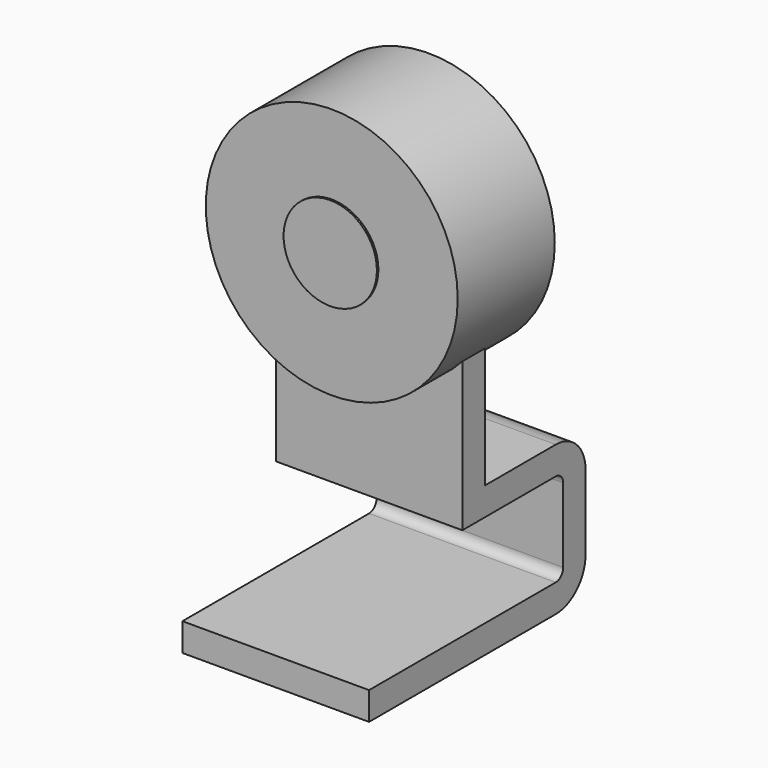
from build123d import *

# Parameters (mm, degrees)
F0_R     = 13.5
F0_R_2   = 5
F1_DEPTH = 6.5
F2_DEPTH = 6.7
F3_R     = 5
F4_DEPTH = 1.5
F6_DEPTH = 10


with BuildPart() as f1:
    # F0 (on Front) → F1 (new body, symmetric)
    with BuildSketch(Plane.XZ):
        Circle(F0_R)
        Circle(F0_R_2, mode=Mode.SUBTRACT)
    extrude(amount=F1_DEPTH, both=True)

    # F0 (on Front) → F2 (join, symmetric)
    with BuildSketch(Plane.XZ):
        Circle(F0_R_2)
    extrude(amount=F2_DEPTH, both=True)

    # F3 (on Front) → F4 (join, symmetric)
    with BuildSketch(Plane.XZ):
        with BuildLine():
            Line((10, -25), (10, 0))
            ThreePointArc((10, 0), (0, 10), (-10, 0))
            Line((-10, 0), (-10, -25))
            Line((-10, -25), (10, -25))
        make_face()
        Circle(F3_R, mode=Mode.SUBTRACT)
    extrude(amount=F4_DEPTH, both=True)

    # F5 (on Right) → F6 (join, symmetric)
    with BuildSketch(Plane.YZ):
        with BuildLine():
            Line((0, -22), (0, -25))
            Line((0, -25), (1.5, -25))
            Line((1.5, -25), (11, -25))
            ThreePointArc((11, -25), (11.7071067812, -25.2928932188), (12, -26))
            Line((12, -26), (12, -34))
            ThreePointArc((12, -34), (11.7071067812, -34.7071067812), (11, -35))
            Line((11, -35), (-14, -35))
            Line((-14, -35), (-14, -38))
            Line((-14, -38), (11, -38))
            ThreePointArc((11, -38), (13.8284271247, -36.8284271247), (15, -34))
            Line((15, -34), (15, -26))
            ThreePointArc((15, -26), (13.8284271247, -23.1715728753), (11, -22))
            Line((11, -22), (0, -22))
        make_face()
    extrude(amount=F6_DEPTH, both=True)


solid = f1.part
